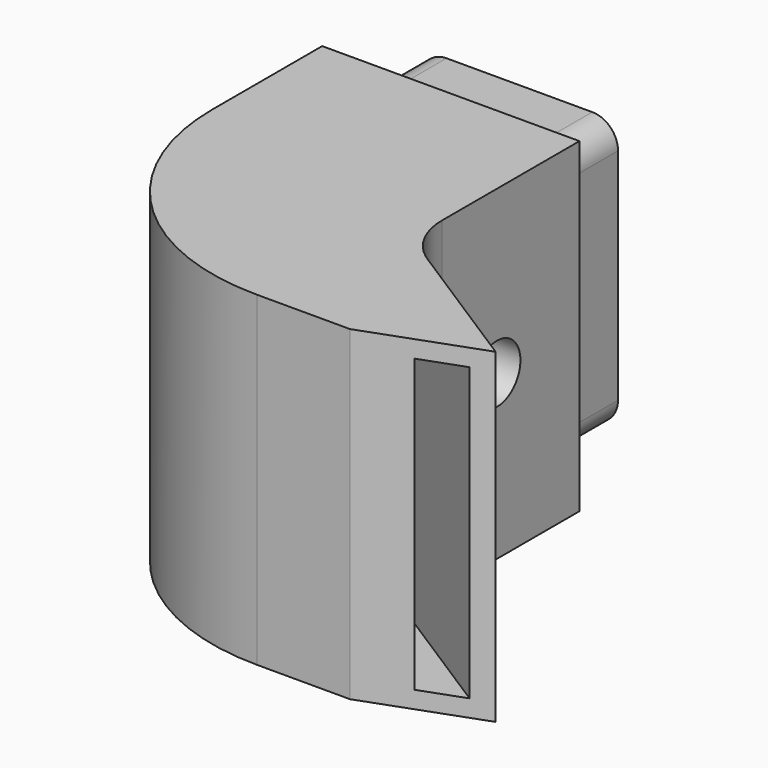
from build123d import *

# Parameters (mm, degrees)
CYLINDER001_R           = 4.25
CYLINDER001_DEPTH       = 3.4
CYLINDER001_PITCH_ANGLE = 90
CYLINDER_R              = 2.7
CYLINDER_DEPTH          = 11
CYLINDER_PITCH_ANGLE    = 90
PAD001_DEPTH            = 8.5
SKETCH002_W             = 6
SKETCH002_H             = 1.5
POCKET_DEPTH            = 9.001
PAD_DEPTH               = 9.5
SKETCH003_R             = 3.25
POCKET001_DEPTH         = 3.4
SKETCH004_R             = 1.7
POCKET002_DEPTH         = 24.998848
SKETCH005_W             = 9
SKETCH005_H             = 14
PAD002_DEPTH            = 5


with BuildPart() as cylinder001:
    # Cylinder001 → Cylinder001 (new body)
    with BuildSketch(Plane.XY):
        Circle(CYLINDER001_R)
    extrude(amount=CYLINDER001_DEPTH)


with BuildPart() as cylinder001_1:
    # Cylinder001 pitch: moved
    add(cylinder001.part.rotate(Axis((0, 0, 0), (0, 1, 0)), CYLINDER001_PITCH_ANGLE))


with BuildPart() as cylinder001_2:
    # Cylinder001 placement: moved
    add(cylinder001_1.part.moved(Location((-13, -6, 0))))


with BuildPart() as screw_tube:
    # Cylinder → Cylinder (new body)
    with BuildSketch(Plane.XY):
        Circle(CYLINDER_R)
    extrude(amount=CYLINDER_DEPTH)


with BuildPart() as screw_tube_1:
    # Cylinder pitch: moved
    add(screw_tube.part.rotate(Axis((0, 0, 0), (0, 1, 0)), CYLINDER_PITCH_ANGLE))


with BuildPart() as screw_tube_2:
    # Cylinder placement: moved
    add(screw_tube_1.part.moved(Location((-12.6, -6, 0))))

    # Fusion: union Cylinder001
    add(cylinder001_2.part)


with BuildPart() as pocket:
    # Sketch001 → Pad001 (new body, symmetric)
    with BuildSketch(Plane.XY):
        with BuildLine():
            Line((-12, 0), (-12, -7.3))
            ThreePointArc((-12, -7.3), (-10.174376, -12.864965), (-5.407034, -16.267051))
            Line((-5.407034, -16.267051), (6.329406, -19.933783))
            Line((6.329406, -19.933783), (7.579268, -20.324269))
            Line((7.579268, -20.324269), (9.655694, -19.568512))
            Line((9.655694, -19.568512), (8.813242, -19.029741))
            Line((1.612292, -14.424542), (8.813242, -19.029741))
            ThreePointArc((-3, -6), (-1.771466, -10.802245), (1.612292, -14.424542))
            Line((-3, 0), (-3, -6))
            Line((-3, 1), (-3, 0))
            Line((-12, 1), (-3, 1))
            Line((-12, 0), (-12, 1))
        make_face()
    extrude(amount=PAD001_DEPTH, both=True)

    # Sketch002 → Pocket (cut, through all)
    with BuildSketch(Plane.YZ.offset(-3)):
        with Locations((-2, 7.75)):
            Rectangle(SKETCH002_W, SKETCH002_H)
        with Locations((-2, -7.75)):
            Rectangle(SKETCH002_W, SKETCH002_H)
    extrude(amount=-POCKET_DEPTH, mode=Mode.SUBTRACT)


with BuildPart() as top:
    # Sketch → Pad (new body, symmetric)
    with BuildSketch(Plane.XY):
        with BuildLine():
            Line((0, 0), (-15, 0))
            Line((-15, 0), (-15, -8))
            ThreePointArc((-15, -8), (-11.192388, -17.192388), (-2, -21))
            Line((-2, -21), (3.42, -21))
            Line((3.42, -21), (9.997848, -18.605859))
            Line((1.997848, -13.489646), (9.997848, -18.605859))
            ThreePointArc((0, -10), (0.5348, -12.010537), (1.997848, -13.489646))
            Line((0, 0), (0, -10))
        make_face()
    extrude(amount=PAD_DEPTH, both=True)

    # Cut: cut Pocket
    add(pocket.part, mode=Mode.SUBTRACT)

    # Fusion001: union screw-tube
    add(screw_tube_2.part)

    # Sketch003 → Pocket001 (cut)
    with BuildSketch(Plane(origin=(-15, 0, 0), x_dir=(0, -1, 0), z_dir=(-1, 0, 0))):
        with Locations((6, 0)):
            Circle(SKETCH003_R)
    extrude(amount=-POCKET001_DEPTH, mode=Mode.SUBTRACT)

    # Sketch004 → Pocket002 (cut, through all)
    with BuildSketch(Plane(origin=(-15, 0, 0), x_dir=(0, -1, 0), z_dir=(-1, 0, 0))):
        with Locations((6, 0)):
            Circle(SKETCH004_R)
    extrude(amount=-POCKET002_DEPTH, mode=Mode.SUBTRACT)

    # Sketch005 → Pad002 (new body)
    with BuildSketch(Plane(origin=(0, 0, 0), x_dir=(-1, 0, 0), z_dir=(0, 1, 0))):
        with BuildLine():
            ThreePointArc((3.25, 7.9), (2.18934, 7.46066), (1.75, 6.4))
            Line((1.75, 6.4), (1.75, -6.4))
            ThreePointArc((1.75, -6.4), (2.18934, -7.46066), (3.25, -7.9))
            Line((3.25, -7.9), (11.75, -7.9))
            ThreePointArc((11.75, -7.9), (12.81066, -7.46066), (13.25, -6.4))
            Line((13.25, 6.4), (13.25, -6.4))
            ThreePointArc((13.25, 6.4), (12.81066, 7.46066), (11.75, 7.9))
            Line((3.25, 7.9), (11.75, 7.9))
        make_face()
        with Locations((7.5, 0)):
            Rectangle(SKETCH005_W, SKETCH005_H, mode=Mode.SUBTRACT)
    extrude(amount=PAD002_DEPTH)


solid = top.part
